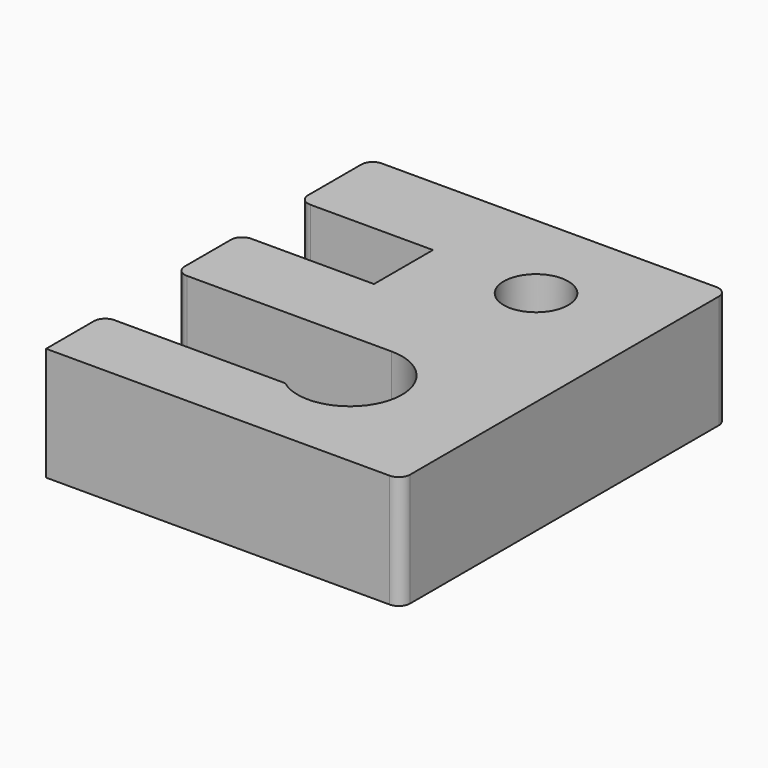
from build123d import *

# Parameters (mm, degrees)
F0_R     = 3.611542
F1_DEPTH = 12.7


with BuildPart() as f1:
    # F0 (on Top) → F1 (new body)
    with BuildSketch(Plane.XY):
        with BuildLine():
            Line((11.588495, 27.25), (-25.871505, 27.25))
            ThreePointArc((-25.871505, 27.25), (-26.769531, 26.878026), (-27.141505, 25.98))
            Line((-27.141505, 25.98), (-27.141505, 18.52))
            ThreePointArc((-27.141505, 18.52), (-26.769531, 17.621974), (-25.871505, 17.25))
            Line((-25.871505, 17.25), (-12.141505, 17.25))
            Line((-12.141505, 17.25), (-12.141505, 9))
            Line((-12.141505, 9), (-25.871505, 9))
            ThreePointArc((-25.871505, 9), (-26.769531, 8.628026), (-27.141505, 7.73))
            Line((-27.141505, 7.73), (-27.141505, 1.27))
            ThreePointArc((-27.141505, 1.27), (-26.769531, 0.371974), (-25.871505, 0))
            Line((-25.871505, 0), (-2.976505, 0))
            ThreePointArc((-2.976505, 0), (2.558271, -7.682559), (-6.481502, -10.5))
            Line((-6.481502, -10.5), (-25.598086, -10.5))
            ThreePointArc((-25.598086, -10.5), (-26.496112, -10.871974), (-26.868086, -11.77))
            Line((-26.868086, -11.77), (-26.868086, -18.462964))
            Line((-26.868086, -18.462964), (11.588495, -18.462964))
            ThreePointArc((11.588495, -18.462964), (12.486521, -18.09099), (12.858495, -17.192964))
            Line((12.858495, -17.192964), (12.858495, 25.98))
            ThreePointArc((12.858495, 25.98), (12.486521, 26.878026), (11.588495, 27.25))
        make_face()
        with Locations((0, 16.488843)):
            Circle(F0_R, mode=Mode.SUBTRACT)
    extrude(amount=F1_DEPTH)


solid = f1.part
